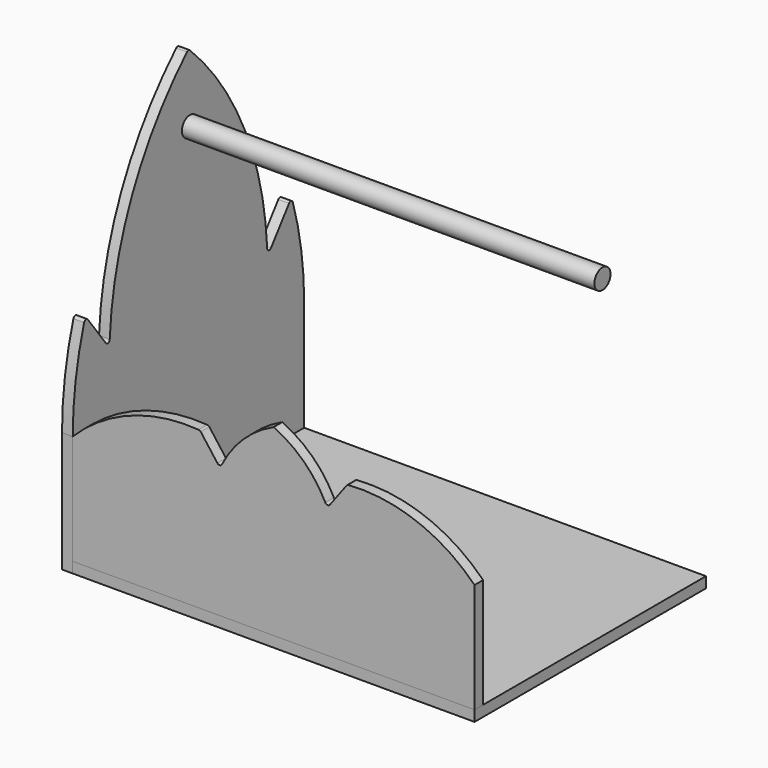
from build123d import *

# Parameters (mm, degrees)
F3_W      = 300
F3_H      = 216
F4_DEPTH  = 4
F7_DEPTH  = 8
F9_D      = 15
F11_DEPTH = 8
F12_R     = 7.5
F13_DEPTH = 316


with BuildPart() as f4:
    # F3 (on Top) → F4 (new body, symmetric)
    with BuildSketch(Plane.XY):
        Rectangle(F3_W, F3_H)
    extrude(amount=F4_DEPTH, both=True)


with BuildPart() as f7:
    # F6 (on face) → F7 (new body)
    with BuildSketch(Plane(origin=(-150, 0, 0), x_dir=(0, -1, 0), z_dir=(-1, 0, 0))):
        with BuildLine():
            Line((-108, -4), (108, -4))
            Line((108, -4), (108, 86))
            ThreePointArc((108, 86), (105.3313162087, 121.6909841087), (97.384613778, 156.5882352941))
            ThreePointArc((97.384613778, 156.5882352941), (95.8163362583, 157.9703227997), (93.8730753298, 157.2))
            Line((93.8730753298, 157.2), (77.0730753298, 134.8))
            ThreePointArc((77.0730753298, 134.8), (74.8892385473, 134.0871135393), (73.4756795548, 135.8979700143))
            ThreePointArc((73.4756795548, 135.8979700143), (52.500901807, 222.4711121462), (1.3967379281, 295.4314758678))
            ThreePointArc((1.3967379281, 295.4314758678), (0, 296), (-1.3967379281, 295.4314758678))
            ThreePointArc((-1.3967379281, 295.4314758678), (-52.500901807, 222.4711121462), (-73.4756795548, 135.8979700143))
            ThreePointArc((-73.4756795548, 135.8979700143), (-74.8892385473, 134.0871135393), (-77.0730753298, 134.8))
            Line((-77.0730753298, 134.8), (-93.8730753298, 157.2))
            ThreePointArc((-93.8730753298, 157.2), (-95.8163362583, 157.9703227997), (-97.384613778, 156.5882352941))
            ThreePointArc((-97.384613778, 156.5882352941), (-105.3313162087, 121.6909841087), (-108, 86))
            Line((-108, 86), (-108, -4))
        make_face()
    extrude(amount=F7_DEPTH)

    # F9 (through all)
    with Locations(Plane(origin=(-158, 0, 0), x_dir=(0, -1, 0), z_dir=(-1, 0, 0))):
        with Locations((-1.3967379281, 245.4314758678)):
            Hole(F9_D / 2)


with BuildPart() as f11:
    # F10 (on face) → F11 (new body)
    with BuildSketch(Plane.XZ.offset(108)):
        with BuildLine():
            Line((-150, 86), (-150, 4))
            Line((-150, 4), (0, 4))
            Line((0, 4), (150, 4))
            Line((150, 4), (150, 86))
            ThreePointArc((150, 86), (106.7989638121, 113.8508882696), (55.908271761, 121.0716200659))
            ThreePointArc((55.908271761, 121.0716200659), (55.0971481355, 120.8313410356), (54.4579199256, 120.2772265674))
            Line((54.4579199256, 120.2772265674), (41.9837086168, 103.6449448224))
            ThreePointArc((41.9837086168, 103.6449448224), (40.2052990098, 102.8529182131), (38.5959345964, 103.9483601628))
            ThreePointArc((38.5959345964, 103.9483601628), (22.4871641318, 125.7963011251), (0, 141))
            ThreePointArc((0, 141), (-22.4871641318, 125.7963011251), (-38.5959345964, 103.9483601628))
            ThreePointArc((-38.5959345964, 103.9483601628), (-40.2052990098, 102.8529182131), (-41.9837086168, 103.6449448224))
            Line((-41.9837086168, 103.6449448224), (-54.4579199256, 120.2772265674))
            ThreePointArc((-54.4579199256, 120.2772265674), (-55.0971481355, 120.8313410356), (-55.908271761, 121.0716200659))
            ThreePointArc((-55.908271761, 121.0716200659), (-106.7989638121, 113.8508882696), (-150, 86))
        make_face()
    extrude(amount=-F11_DEPTH)


with BuildPart() as f13:
    # F12 (on face) → F13 (new body)
    with BuildSketch(Plane(origin=(-158, 0, 0), x_dir=(0, -1, 0), z_dir=(-1, 0, 0))):
        with Locations((-1.3967379281, 245.4314758678)):
            Circle(F12_R)
    extrude(amount=-F13_DEPTH)


solid = Compound([f4.part, f7.part, f11.part, f13.part])
